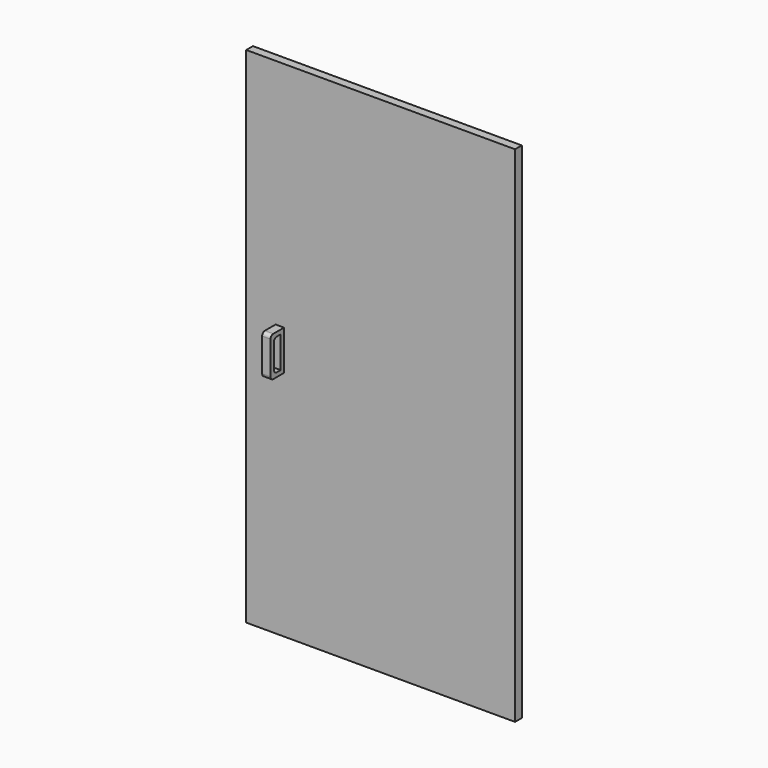
from build123d import *

# Parameters (mm, degrees)
F0_W     = 406.4
F0_H     = 762
F1_DEPTH = 12.7
F3_DEPTH = 25.4
F5_DEPTH = 86.36
F6_R     = 5.08


with BuildPart() as f1:
    # F0 (on Front) → F1 (new body)
    with BuildSketch(Plane.XZ):
        Rectangle(F0_W, F0_H)
    extrude(amount=F1_DEPTH)

    # F2 (on face) → F3 (join)
    with BuildSketch(Plane.XZ.offset(12.7)):
        Polygon((-146.05, -30.14731), (-146.05, 30.14731), (-158.75, 30.14731), (-158.75, 0), (-158.75, -30.14731), align=None)
    extrude(amount=F3_DEPTH)

    # F4 (on face) → F5 (cut)
    with BuildSketch(Plane.YZ.offset(-146.05)):
        Polygon((-31.75, 23.79731), (-31.75, 0), (-31.75, -23.79731), (-19.05, -23.79731), (-19.05, 23.79731), align=None)
    extrude(amount=-F5_DEPTH, mode=Mode.SUBTRACT)

    # F6
    f6_edges = [f1.edges().sort_by_distance(p)[0] for p in [
        (-152.4, -38.1, 30.14731),
        (-152.4, -38.1, -30.14731),
        (-152.4, -31.75, 23.79731),
        (-152.4, -31.75, -23.79731),
    ]]
    fillet(f6_edges, radius=F6_R)


solid = f1.part
